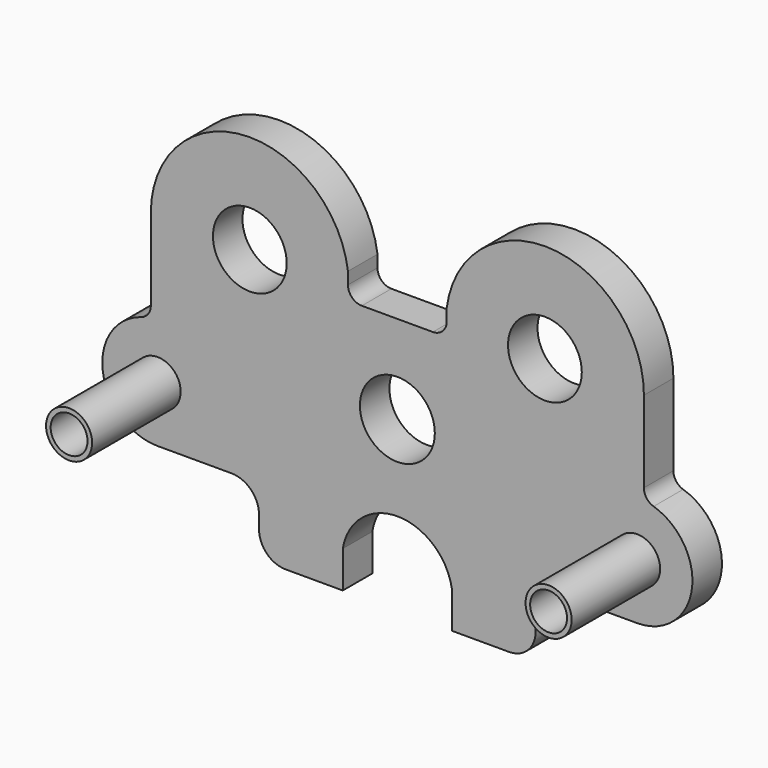
from build123d import *

# Parameters (mm, degrees)
F0_R     = 7.9375
F0_R_2   = 6.35
F1_DEPTH = 50.8
F2_DEPTH = 50.8
F0_R_3   = 12.89792
F0_R_4   = 12.7
F3_DEPTH = 12.7


with BuildPart() as f1:
    # F0 (on Front) → F1 (new body)
    with BuildSketch(Plane.XZ):
        with Locations((82.55, -3.036259)):
            Circle(F0_R)
        with Locations((82.55, -3.036259)):
            Circle(F0_R_2, mode=Mode.SUBTRACT)
    extrude(amount=F1_DEPTH)


with BuildPart() as f2:
    # F0 (on Front) → F2 (new body)
    with BuildSketch(Plane.XZ):
        with Locations((-82.55, -3.036259)):
            Circle(F0_R)
        with Locations((-82.55, -3.036259)):
            Circle(F0_R_2, mode=Mode.SUBTRACT)
    extrude(amount=F2_DEPTH)


with BuildPart() as f3:
    # F0 (on Front) → F3 (new body)
    with BuildSketch(Plane.XZ):
        with BuildLine():
            ThreePointArc((84.889529, 47.763741), (53.033181, 81.780044), (17.003059, 52.220508))
            Line((17.003059, 52.220508), (17.003059, 48.071559))
            ThreePointArc((17.003059, 48.071559), (15.604436, 44.694983), (12.227859, 43.296359))
            Line((12.227859, 43.296359), (-12.227859, 43.296359))
            ThreePointArc((-12.227859, 43.296359), (-15.604436, 44.694983), (-17.003059, 48.071559))
            Line((-17.003059, 48.071559), (-17.003059, 52.220508))
            ThreePointArc((-17.003059, 52.220508), (-53.033181, 81.780044), (-84.889529, 47.763741))
            Line((-84.889529, 47.763741), (-84.889529, 19.701832))
            ThreePointArc((-84.889529, 19.701832), (-85.81688, 16.874007), (-88.238749, 15.144518))
            ThreePointArc((-88.238749, 15.144518), (-101.381152, -5.91553), (-82.546187, -22.086258))
            Line((-82.546187, -22.086258), (-57.146187, -22.081174))
            ThreePointArc((-57.146187, -22.081174), (-50.409763, -24.870308), (-47.619281, -31.606174))
            Line((-47.619281, -31.606174), (-47.619281, -36.029856))
            ThreePointArc((-47.619281, -36.029856), (-44.94901, -42.47646), (-38.502407, -45.14673))
            Line((-38.502407, -45.14673), (-18.790584, -45.14673))
            Line((-18.790584, -45.14673), (-18.790584, -32.44673))
            ThreePointArc((-18.790584, -32.44673), (0, -16.52985), (18.790584, -32.44673))
            Line((18.790584, -32.44673), (18.790584, -45.14673))
            Line((18.790584, -45.14673), (38.502407, -45.14673))
            ThreePointArc((38.502407, -45.14673), (44.94901, -42.47646), (47.619281, -36.029856))
            Line((47.619281, -36.029856), (47.619281, -31.606174))
            ThreePointArc((47.619281, -31.606174), (50.409763, -24.870308), (57.146187, -22.081174))
            Line((57.146187, -22.081174), (82.546187, -22.086258))
            ThreePointArc((82.546187, -22.086258), (101.381152, -5.91553), (88.238749, 15.144518))
            ThreePointArc((88.238749, 15.144518), (85.81688, 16.874007), (84.889529, 19.701832))
            Line((84.889529, 19.701832), (84.889529, 47.763741))
        make_face()
        with Locations((-82.55, -3.036259)):
            Circle(F0_R, mode=Mode.SUBTRACT)
        with Locations((0, 12.838741)):
            Circle(F0_R_3, mode=Mode.SUBTRACT)
        with Locations((82.55, -3.036259)):
            Circle(F0_R, mode=Mode.SUBTRACT)
        with Locations((-50.8, 47.763741)):
            Circle(F0_R_4, mode=Mode.SUBTRACT)
        with Locations((50.8, 47.763741)):
            Circle(F0_R_4, mode=Mode.SUBTRACT)
    extrude(amount=F3_DEPTH)


solid = Compound([f1.part, f2.part, f3.part])
